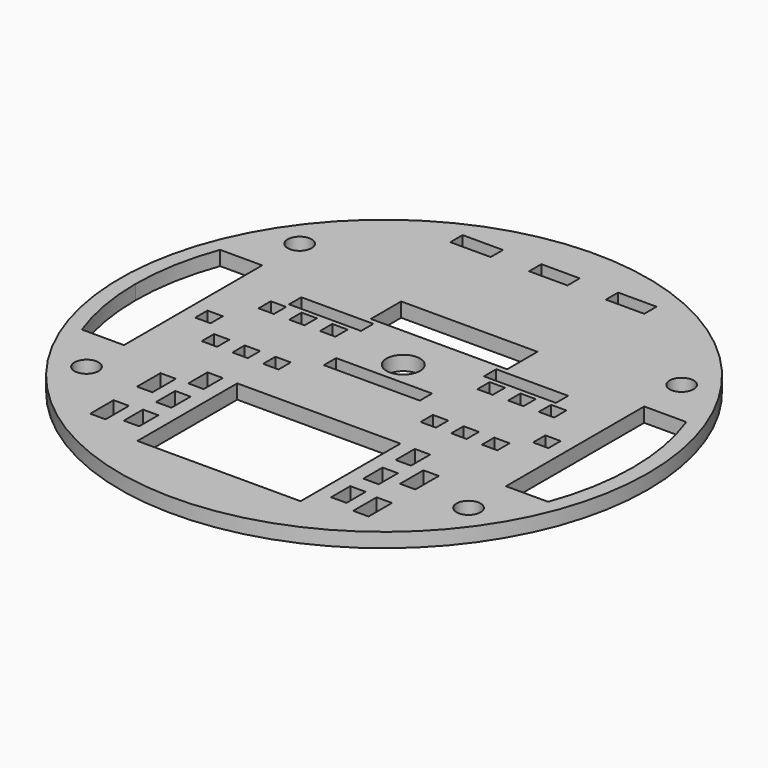
from build123d import *

# Parameters (mm, degrees)
F0_R     = 55
F0_R_2   = 2.5
F0_W     = 3.2
F0_H     = 6.1
F0_H_2   = 5
F0_H_3   = 3.2
F0_W_2   = 15
F0_W_3   = 8.41237
F0_W_4   = 8
F0_R_3   = 3.5
F1_DEPTH = 1.5


with BuildPart() as f1:
    # F0 (on Top) → F1 (new body, symmetric)
    with BuildSketch(Plane.XY):
        Circle(F0_R)
        with Locations((-39.8, -27.75)):
            Circle(F0_R_2, mode=Mode.SUBTRACT)
        with Locations((-27.4, -37.25)):
            Rectangle(F0_W, F0_H, mode=Mode.SUBTRACT)
        with Locations((-21.6, -36.3)):
            Rectangle(F0_W, F0_H_2, mode=Mode.SUBTRACT)
        with Locations((-21.6, -27.9)):
            Rectangle(F0_W, F0_H_2, mode=Mode.SUBTRACT)
        with Locations((-29.2, -7.4)):
            Rectangle(F0_W, F0_H_3, mode=Mode.SUBTRACT)
        with Locations((-35.2, -1.6)):
            Rectangle(F0_W, F0_H_3, mode=Mode.SUBTRACT)
        with Locations((-27.4, -25.05)):
            Rectangle(F0_W, F0_H, mode=Mode.SUBTRACT)
        with Locations((-21.6, -19.5)):
            Rectangle(F0_W, F0_H_2, mode=Mode.SUBTRACT)
        with Locations((-22.8, -7.4)):
            Rectangle(F0_W, F0_H_3, mode=Mode.SUBTRACT)
        with Locations((-16.4, -7.4)):
            Rectangle(F0_W, F0_H_3, mode=Mode.SUBTRACT)
        Polygon((-17, -17), (0, -17), (17, -17), (17, -43), (-17, -43), align=None, mode=Mode.SUBTRACT)
        with Locations((21.6, -36.3)):
            Rectangle(F0_W, F0_H_2, mode=Mode.SUBTRACT)
        with Locations((27.4, -37.25)):
            Rectangle(F0_W, F0_H, mode=Mode.SUBTRACT)
        with Locations((21.6, -27.9)):
            Rectangle(F0_W, F0_H_2, mode=Mode.SUBTRACT)
        with Locations((39.8, -27.75)):
            Circle(F0_R_2, mode=Mode.SUBTRACT)
        with Locations((27.4, -25.05)):
            Rectangle(F0_W, F0_H, mode=Mode.SUBTRACT)
        with Locations((21.6, -19.5)):
            Rectangle(F0_W, F0_H_2, mode=Mode.SUBTRACT)
        Polygon((-10, 0), (0, 0), (10, 0), (10, -3.2), (-10, -3.2), align=None, mode=Mode.SUBTRACT)
        with Locations((16.4, -7.4)):
            Rectangle(F0_W, F0_H_3, mode=Mode.SUBTRACT)
        with Locations((22.8, -7.4)):
            Rectangle(F0_W, F0_H_3, mode=Mode.SUBTRACT)
        with Locations((29.2, -7.4)):
            Rectangle(F0_W, F0_H_3, mode=Mode.SUBTRACT)
        with Locations((35.2, -1.6)):
            Rectangle(F0_W, F0_H_3, mode=Mode.SUBTRACT)
        with BuildLine():
            Line((-44.8, 18), (-39.8, 18))
            Line((-39.8, 18), (-39.8, -18))
            Line((-39.8, -18), (-44.8, -18))
            Line((-44.8, -18), (-48.572008, -18))
            ThreePointArc((-48.572008, -18), (-50.986616, -9.143576), (-51.8, 0))
            ThreePointArc((-51.8, 0), (-50.986616, 9.143576), (-48.572008, 18))
            Line((-48.572008, 18), (-44.8, 18))
        make_face(mode=Mode.SUBTRACT)
        with Locations((-29.2, 7.4)):
            Rectangle(F0_W, F0_H_3, mode=Mode.SUBTRACT)
        with Locations((-22.8, 7.4)):
            Rectangle(F0_W, F0_H_3, mode=Mode.SUBTRACT)
        with Locations((-16.4, 7.4)):
            Rectangle(F0_W, F0_H_3, mode=Mode.SUBTRACT)
        with Locations((-20.3, 11.6)):
            Rectangle(F0_W_2, F0_H_3, mode=Mode.SUBTRACT)
        with Locations((-39.8, 27.75)):
            Circle(F0_R_2, mode=Mode.SUBTRACT)
        with Locations((-16.793815, 45.1)):
            Rectangle(F0_W_3, F0_H_3, mode=Mode.SUBTRACT)
        with Locations((-0.58763, 45.1)):
            Rectangle(F0_W_4, F0_H_3, mode=Mode.SUBTRACT)
        with Locations((0, 5)):
            Circle(F0_R_3, mode=Mode.SUBTRACT)
        with Locations((16.4, 7.4)):
            Rectangle(F0_W, F0_H_3, mode=Mode.SUBTRACT)
        with Locations((20.3, 11.6)):
            Rectangle(F0_W_2, F0_H_3, mode=Mode.SUBTRACT)
        with Locations((22.8, 7.4)):
            Rectangle(F0_W, F0_H_3, mode=Mode.SUBTRACT)
        Polygon((-14.2, 22.2), (14.2, 22.2), (14.2, 15.2), (14.2, 14.3), (-14.2, 14.3), (-14.2, 15.2), align=None, mode=Mode.SUBTRACT)
        with Locations((29.2, 7.4)):
            Rectangle(F0_W, F0_H_3, mode=Mode.SUBTRACT)
        with BuildLine():
            Line((48.572008, -18), (44.8, -18))
            Line((44.8, -18), (39.8, -18))
            Line((39.8, -18), (39.8, 18))
            Line((39.8, 18), (44.8, 18))
            Line((44.8, 18), (48.572008, 18))
            ThreePointArc((48.572008, 18), (50.986616, 9.143576), (51.8, 0))
            ThreePointArc((51.8, 0), (50.986616, -9.143576), (48.572008, -18))
        make_face(mode=Mode.SUBTRACT)
        with Locations((15.41237, 45.1)):
            Rectangle(F0_W_4, F0_H_3, mode=Mode.SUBTRACT)
        with Locations((39.8, 27.75)):
            Circle(F0_R_2, mode=Mode.SUBTRACT)
    extrude(amount=F1_DEPTH, both=True)


solid = f1.part
